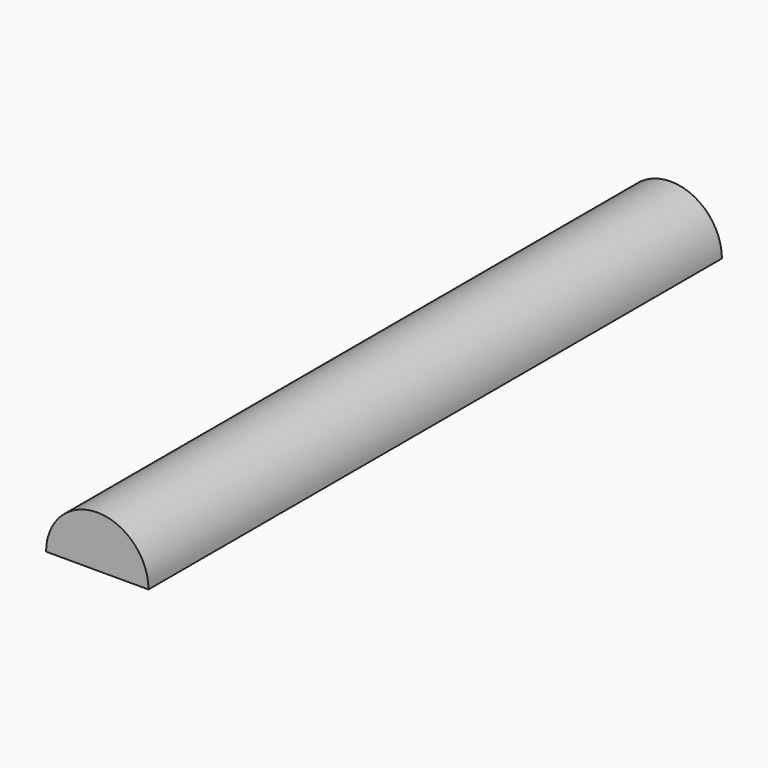
from build123d import *

# Parameters (mm, degrees)
F1_DEPTH = 15
F2_DEPTH = 125
F4_DEPTH = 15


with BuildPart() as f1:
    # F0 (on Front) → F1 (new body)
    with BuildSketch(Plane.XZ):
        with BuildLine():
            Line((-5, 0), (0, 0))
            Line((0, 0), (0, 5))
            Line((0, 5), (5, 5))
            Line((5, 5), (10, 5))
            Line((10, 5), (10, 0))
            Line((10, 0), (15, 0))
            ThreePointArc((15, 0), (5, 10), (-5, 0))
        make_face()
        with BuildLine():
            ThreePointArc((5, 5), (1.4644660941, 3.5355339059), (0, 0))
            Line((0, 0), (10, 0))
            ThreePointArc((10, 0), (8.5355339059, 3.5355339059), (5, 5))
        make_face()
        with BuildLine():
            Line((0, 5), (0, 0))
            ThreePointArc((0, 0), (1.4644660941, 3.5355339059), (5, 5))
            Line((5, 5), (0, 5))
        make_face()
        with BuildLine():
            ThreePointArc((5, 5), (8.5355339059, 3.5355339059), (10, 0))
            Line((10, 0), (10, 5))
            Line((10, 5), (5, 5))
        make_face()
    extrude(amount=F1_DEPTH)

    # F0 (on Front) + F1_face (on face) → F2 (join)
    with BuildSketch(Plane.XZ):
        with BuildLine():
            Line((-5, 0), (0, 0))
            Line((0, 0), (0, 5))
            Line((0, 5), (5, 5))
            Line((5, 5), (10, 5))
            Line((10, 5), (10, 0))
            Line((10, 0), (15, 0))
            ThreePointArc((15, 0), (5, 10), (-5, 0))
        make_face()
        with BuildLine():
            ThreePointArc((5, 5), (8.5355339059, 3.5355339059), (10, 0))
            Line((10, 0), (10, 5))
            Line((10, 5), (5, 5))
        make_face()
        with BuildLine():
            Line((0, 5), (0, 0))
            ThreePointArc((0, 0), (1.4644660941, 3.5355339059), (5, 5))
            Line((5, 5), (0, 5))
        make_face()
    with BuildSketch(Plane(origin=(5, 0, 4.2441318158), x_dir=(1, 0, 0), z_dir=(0, 1, 0))):
        with BuildLine():
            Line((10, 4.2441318158), (-10, 4.2441318158))
            ThreePointArc((-10, 4.2441318158), (0, -5.7558681842), (10, 4.2441318158))
        make_face()
    extrude(amount=-F2_DEPTH, dir=(0, -1, 0))

    # F3 (on face) → F4 (cut)
    with BuildSketch(Plane(origin=(0, 125, 0), x_dir=(-1, 0, 0), z_dir=(0, 1, 0))):
        with BuildLine():
            Line((-12, 1.5), (2, 1.5))
            ThreePointArc((2, 1.5), (-5, 8.5), (-12, 1.5))
        make_face()
    extrude(amount=-F4_DEPTH, mode=Mode.SUBTRACT)


solid = f1.part
